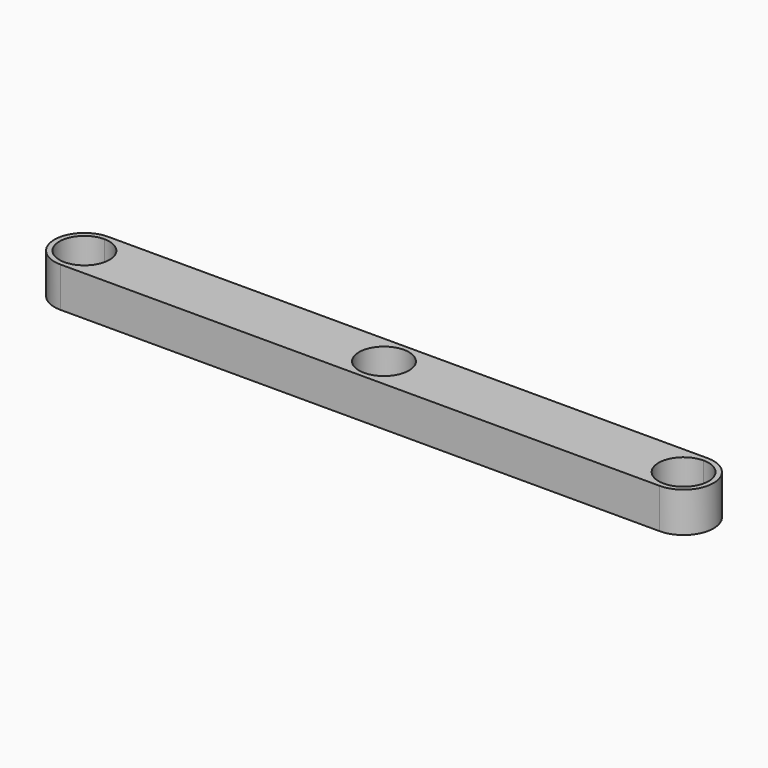
from build123d import *

# Parameters (mm, degrees)
F0_R     = 3.175
F1_DEPTH = 5.08


with BuildPart() as f1:
    # F0 (on Top) → F1 (new body)
    with BuildSketch(Plane.XY):
        with BuildLine():
            Line((-38.1, -3.81), (38.1, -3.81))
            Line((38.1, -3.81), (38.1, -3.175))
            ThreePointArc((38.1, -3.175), (34.925, 0), (38.1, 3.175))
            Line((38.1, 3.175), (38.1, 3.81))
            Line((38.1, 3.81), (-38.1, 3.81))
            Line((-38.1, 3.81), (-38.1, 3.175))
            ThreePointArc((-38.1, 3.175), (-35.854936, 2.245064), (-34.925, 0))
            ThreePointArc((-34.925, 0), (-35.854936, -2.245064), (-38.1, -3.175))
            Line((-38.1, -3.175), (-38.1, -3.81))
        make_face()
        Circle(F0_R, mode=Mode.SUBTRACT)
        with BuildLine():
            Line((38.1, -3.175), (38.1, -3.81))
            ThreePointArc((38.1, -3.81), (41.91, 0), (38.1, 3.81))
            Line((38.1, 3.81), (38.1, 3.175))
            ThreePointArc((38.1, 3.175), (40.345064, 2.245064), (41.275, 0))
            ThreePointArc((41.275, 0), (40.345064, -2.245064), (38.1, -3.175))
        make_face()
        with BuildLine():
            ThreePointArc((-38.1, 3.81), (-41.91, 0), (-38.1, -3.81))
            Line((-38.1, -3.81), (-38.1, -3.175))
            ThreePointArc((-38.1, -3.175), (-41.275, 0), (-38.1, 3.175))
            Line((-38.1, 3.175), (-38.1, 3.81))
        make_face()
    extrude(amount=F1_DEPTH)


solid = f1.part
